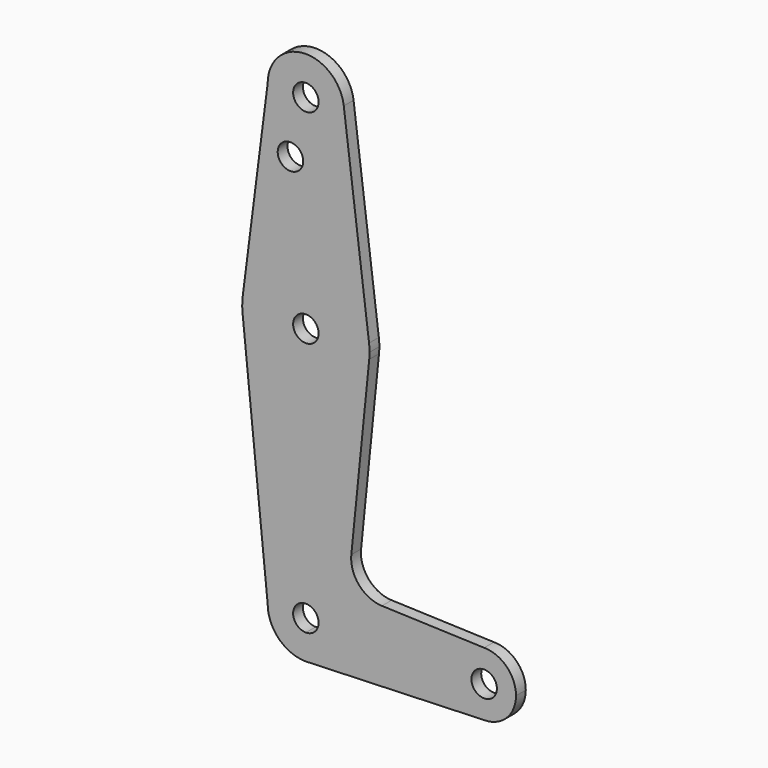
from build123d import *

# Parameters (mm, degrees)
F0_R     = 3.175
F1_DEPTH = 3.048


with BuildPart() as f1:
    # F0 (on Front) → F1 (new body)
    with BuildSketch(Plane.XZ):
        with BuildLine():
            Line((9.525, 0), (3.175, 0))
            ThreePointArc((3.175, 0), (2.2450640303, -2.2450640303), (0, -3.175))
            Line((0, -3.175), (0, -9.525))
            Line((0, -9.525), (0.6794904459, -9.5007324841))
            ThreePointArc((0.6794904459, -9.5007324841), (6.9712901065, -6.4905114784), (9.525, 0))
        make_face()
        with BuildLine():
            ThreePointArc((0, -3.175), (-3.175, 0), (0, 3.175))
            Line((0, 3.175), (0, 9.525))
            ThreePointArc((0, 9.525), (-6.7351920908, 6.7351920908), (-9.525, 0))
            ThreePointArc((-9.525, 0), (-6.7351920908, -6.7351920908), (0, -9.525))
            Line((0, -9.525), (0, -3.175))
        make_face()
        with BuildLine():
            ThreePointArc((0, 9.525), (6.7351920908, 6.7351920908), (9.525, 0))
            Line((9.525, 0), (36.5125, 0))
            ThreePointArc((36.5125, 0), (38.8373399243, 5.6126600757), (44.45, 7.9375))
            Line((44.45, 7.9375), (18.9531071814, 8.848103315))
            ThreePointArc((18.9531071814, 8.848103315), (13.2457592018, 11.5671143206), (11.326764692, 17.5907595525))
            Line((11.326764692, 17.5907595525), (15.7949227143, 61.9075046467))
            ThreePointArc((15.7949227143, 61.9075046467), (0.0035802538, 47.6250004037), (-15.7942028036, 61.9003804205))
            Line((-15.7942028036, 61.9003804205), (-9.525, 0))
            ThreePointArc((-9.525, 0), (-6.7351920908, 6.7351920908), (0, 9.525))
        make_face()
        with BuildLine():
            Line((36.5125, 0), (9.525, 0))
            ThreePointArc((9.525, 0), (6.9712901065, -6.4905114784), (0.6794904459, -9.5007324841))
            Line((0.6794904459, -9.5007324841), (44.45, -7.9375))
            ThreePointArc((44.45, -7.9375), (38.8373399243, -5.6126600757), (36.5125, 0))
        make_face()
        with BuildLine():
            Line((0.6794904459, -9.5007324841), (0, -9.525))
            ThreePointArc((0, -9.525), (0.3399618281, -9.5189311877), (0.6794904459, -9.5007324841))
        make_face()
        with BuildLine():
            ThreePointArc((44.45, 7.9375), (38.8373399243, 5.6126600757), (36.5125, 0))
            ThreePointArc((36.5125, 0), (38.8373399243, -5.6126600757), (44.45, -7.9375))
            ThreePointArc((44.45, -7.9375), (50.0626600757, -5.6126600757), (52.3875, 0))
            ThreePointArc((52.3875, 0), (50.0626600757, 5.6126600757), (44.45, 7.9375))
        make_face()
        with BuildLine():
            ThreePointArc((47.625, 0), (44.45, -3.175), (41.275, 0))
            ThreePointArc((41.275, 0), (44.45, 3.175), (47.625, 0))
        make_face(mode=Mode.SUBTRACT)
        with BuildLine():
            ThreePointArc((-15.7474569047, 65.5082893304), (-15.873667691, 63.7056672947), (-15.7942028036, 61.9003804205))
            ThreePointArc((-15.7942028036, 61.9003804205), (0.0035802538, 47.6250004037), (15.7949227143, 61.9075046467))
            ThreePointArc((15.7949227143, 61.9075046467), (15.8549680398, 62.7027463042), (15.875, 63.5))
            ThreePointArc((15.875, 63.5), (15.8438414904, 64.4941387366), (15.7504882737, 65.484375))
            ThreePointArc((15.7504882737, 65.484375), (0.0120528461, 79.3749954245), (-15.7474569047, 65.5082893304))
        make_face()
        with Locations((0, 63.5)):
            Circle(F0_R, mode=Mode.SUBTRACT)
        with BuildLine():
            Line((-9.525, 114.3), (-15.7474569047, 65.5082893304))
            ThreePointArc((-15.7474569047, 65.5082893304), (0.0120528461, 79.3749954245), (15.7504882737, 65.484375))
            Line((15.7504882737, 65.484375), (9.4502929642, 115.490625))
            ThreePointArc((9.4502929642, 115.490625), (9.5063048942, 114.896483242), (9.525, 114.3))
            ThreePointArc((9.525, 114.3), (0, 104.775), (-9.525, 114.3))
        make_face()
        with Locations((-3.8467478007, 100.0252)):
            Circle(F0_R, mode=Mode.SUBTRACT)
        with BuildLine():
            ThreePointArc((9.4502929642, 115.490625), (-0.596483242, 123.8063048942), (-9.525, 114.3))
            ThreePointArc((-9.525, 114.3), (0, 104.775), (9.525, 114.3))
            ThreePointArc((9.525, 114.3), (9.5063048942, 114.896483242), (9.4502929642, 115.490625))
        make_face()
        with Locations((0, 114.3)):
            Circle(F0_R, mode=Mode.SUBTRACT)
        with BuildLine():
            ThreePointArc((0, 3.175), (2.2450640303, 2.2450640303), (3.175, 0))
            Line((3.175, 0), (9.525, 0))
            ThreePointArc((9.525, 0), (6.7351920908, 6.7351920908), (0, 9.525))
            Line((0, 9.525), (0, 3.175))
        make_face()
    extrude(amount=F1_DEPTH)


solid = f1.part
